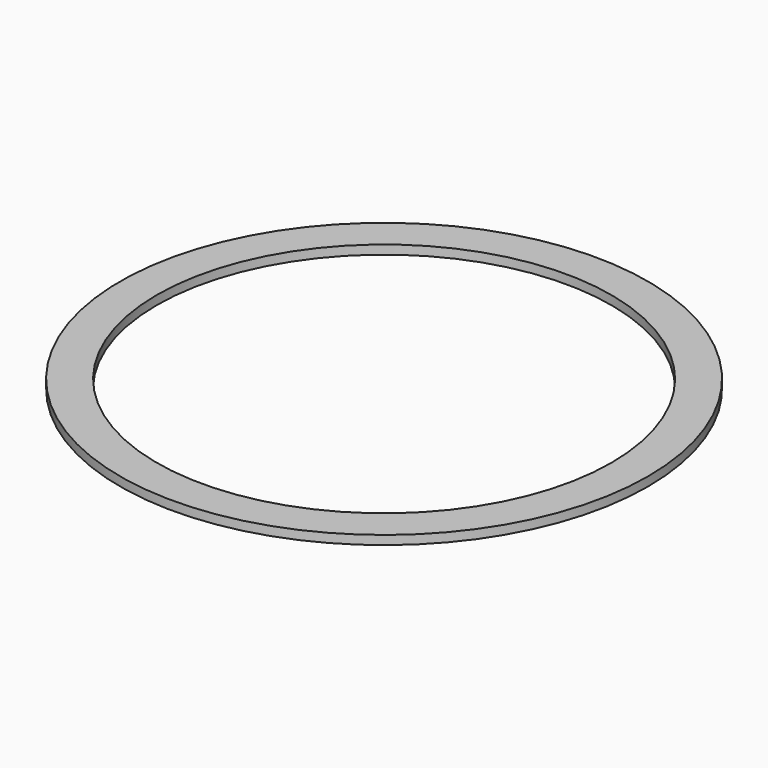
from build123d import *

# Parameters (mm, degrees)
SKETCH_R   = 29.5
SKETCH_R_2 = 25.4
PAD_DEPTH  = 1


with BuildPart() as part:
    # Sketch → Pad (new body)
    with BuildSketch(Plane.XY):
        Circle(SKETCH_R)
        Circle(SKETCH_R_2, mode=Mode.SUBTRACT)
    extrude(amount=PAD_DEPTH)


solid = part.part
